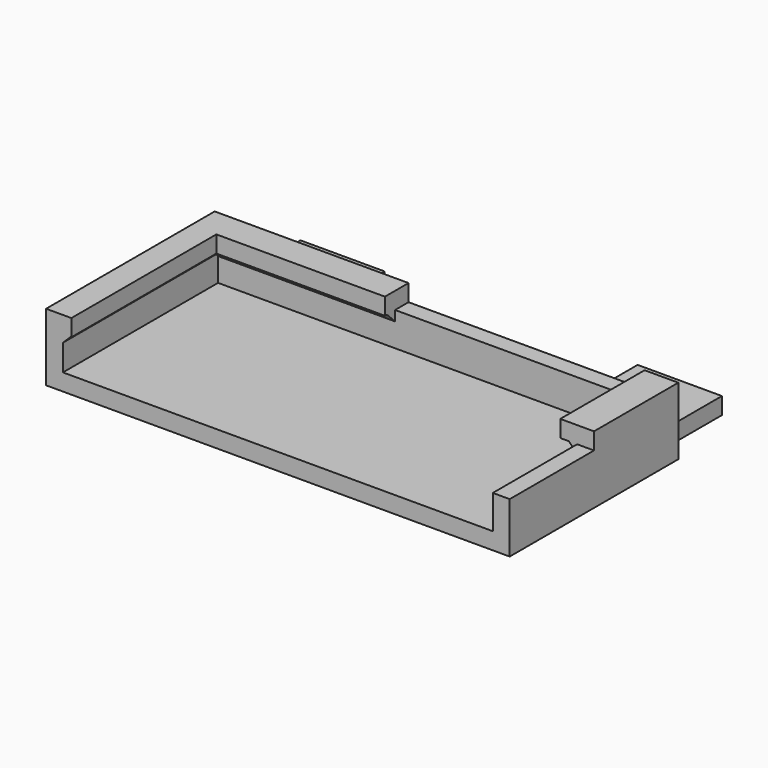
from build123d import *

# Parameters (mm, degrees)
SKETCH004_W     = 10
SKETCH004_H     = 10
SKETCH004_R     = 1.7
PAD004_DEPTH    = 2
SKETCH_W        = 55
SKETCH_H        = 25
PAD_DEPTH       = 2
SKETCH001_W     = 2
SKETCH001_H     = 25
SKETCH001_W_2   = 51
SKETCH001_H_2   = 2
PAD001_DEPTH    = 4
SKETCH002_W     = 3
SKETCH002_H     = 25
SKETCH002_W_2   = 4
SKETCH002_H_2   = 12.5
PAD002_DEPTH    = 2
SKETCH003_W     = 20
SKETCH003_H     = 3.5
PAD003_DEPTH    = 2
CHAMFER_SIZE    = 0.9
CHAMFER001_SIZE = 1.2
CHAMFER002_SIZE = 1


with BuildPart() as pad004:
    # Sketch004 → Pad004 (new body)
    with BuildSketch(Plane.XY):
        with Locations((-19.872825, 16.936594)):
            Rectangle(SKETCH004_W, SKETCH004_H)
        with Locations((-19.872825, 16.936594)):
            Circle(SKETCH004_R, mode=Mode.SUBTRACT)
        with Locations((20.127175, 16.936594)):
            Rectangle(SKETCH004_W, SKETCH004_H)
        with Locations((20.127175, 16.936594)):
            Circle(SKETCH004_R, mode=Mode.SUBTRACT)
    extrude(amount=PAD004_DEPTH)


with BuildPart() as chamfer002:
    # Sketch → Pad (new body)
    with BuildSketch(Plane.XY):
        Rectangle(SKETCH_W, SKETCH_H)
    extrude(amount=PAD_DEPTH)

    # Sketch001 → Pad001 (new body)
    with BuildSketch(Plane.XY.offset(2)):
        with Locations((-26.5, 0)):
            Rectangle(SKETCH001_W, SKETCH001_H)
        with Locations((26.5, 0)):
            Rectangle(SKETCH001_W, SKETCH001_H)
        with Locations((0, 11.5)):
            Rectangle(SKETCH001_W_2, SKETCH001_H_2)
    extrude(amount=PAD001_DEPTH)

    # Sketch002 → Pad002 (new body)
    with BuildSketch(Plane.XY.offset(6)):
        with Locations((-26, 0)):
            Rectangle(SKETCH002_W, SKETCH002_H)
        with Locations((25.5, 6.25)):
            Rectangle(SKETCH002_W_2, SKETCH002_H_2)
    extrude(amount=PAD002_DEPTH)

    # Sketch003 → Pad003 (new body)
    with BuildSketch(Plane.XY.offset(6)):
        with Locations((-14.5, 10.75)):
            Rectangle(SKETCH003_W, SKETCH003_H)
    extrude(amount=PAD003_DEPTH)

    # Chamfer
    chamfer_edges = [chamfer002.edges().sort_by_distance(p)[0] for p in [
        (-25.5, -1, 6),
    ]]
    chamfer(chamfer_edges, length=CHAMFER_SIZE)

    # Chamfer001
    chamfer001_edges = [chamfer002.edges().sort_by_distance(p)[0] for p in [
        (-14.5, 10.5, 6),
    ]]
    chamfer(chamfer001_edges, length=CHAMFER001_SIZE)

    # Chamfer002
    chamfer002_edges = [chamfer002.edges().sort_by_distance(p)[0] for p in [
        (25.5, 5.25, 6),
        (24.5, 10.5, 6),
    ]]
    chamfer(chamfer002_edges, length=CHAMFER002_SIZE)


solid = Compound([pad004.part, chamfer002.part])
